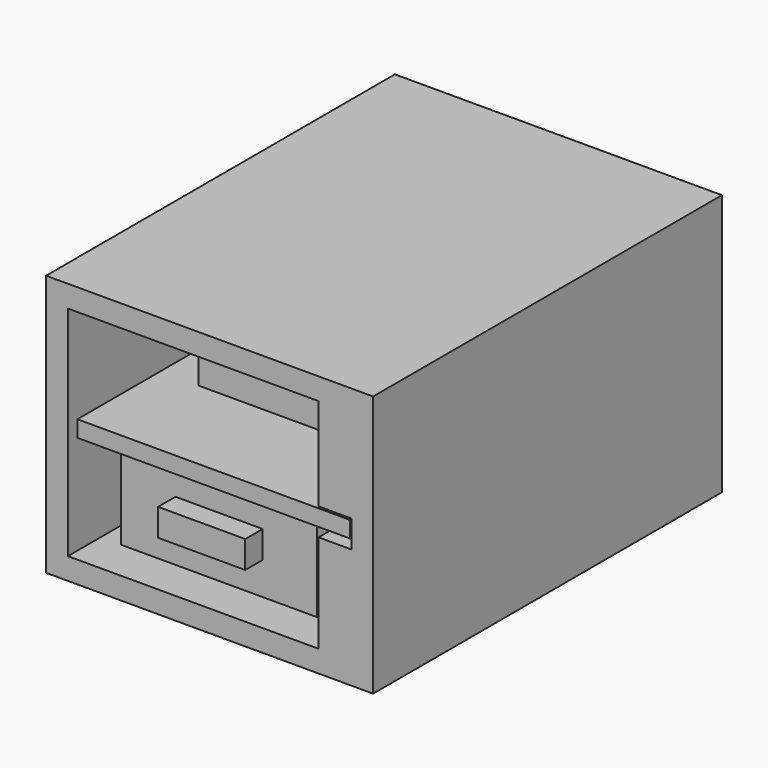
from build123d import *

# Parameters (mm, degrees)
SKETCH_W             = 25
SKETCH_H             = 37
PAD_DEPTH            = 1.5
SKETCH001_W          = 16
SKETCH001_H          = 26
PAD001_DEPTH         = 8.5
SKETCH002_W          = 18
SKETCH002_H          = 32.5
PAD002_DEPTH         = 9
SKETCH003_W          = 8
SKETCH003_H          = 2.5
PAD003_DEPTH         = 2
BODY_PITCH_ANGLE     = 90
BODY_PLACEMENT_ANGLE = -90
SKETCH004_W          = 30
SKETCH004_H          = 24
PAD004_DEPTH         = 38
SKETCH005_W          = 30
SKETCH005_H          = 24
PAD005_DEPTH         = 2


with BuildPart() as obj1:
    # Sketch → Pad (new body)
    with BuildSketch(Plane.YZ):
        with Locations((4.273874, -1.909899)):
            Rectangle(SKETCH_W, SKETCH_H)
    extrude(amount=PAD_DEPTH)

    # Sketch001 (on Face5 of Pad) → Pad001 (join)
    with BuildSketch(Plane(origin=(0, 0, 0), x_dir=(0, 1, 0), z_dir=(-1, 0, 0))):
        with Locations((3.273874, 5.909899)):
            Rectangle(SKETCH001_W, SKETCH001_H)
    extrude(amount=PAD001_DEPTH)

    # Sketch002 (on Face5 of Pad001) → Pad002 (join)
    with BuildSketch(Plane.YZ.offset(1.5)):
        with Locations((2.773874, -2.159899)):
            Rectangle(SKETCH002_W, SKETCH002_H)
    extrude(amount=PAD002_DEPTH)

    # Sketch003 (on Face14 of Pad002) → Pad003 (join)
    with BuildSketch(Plane(origin=(0, 0, 14.090101), x_dir=(0, -1, 0), z_dir=(0, 0, 1))):
        with Locations((-2.773874, 6.25)):
            Rectangle(SKETCH003_W, SKETCH003_H)
    extrude(amount=PAD003_DEPTH)


with BuildPart() as obj1_1:
    # Body pitch: moved
    add(obj1.part.rotate(Axis((0, 0, 0), (0, 1, 0)), BODY_PITCH_ANGLE))


with BuildPart() as obj1_2:
    # Body placement: moved
    add(obj1_1.part.moved(Location((7.68397, -0.0001, 3.86387))).rotate(Axis((7.68397, -0.0001, 3.86387), (0, 0, 1)), BODY_PLACEMENT_ANGLE))


with BuildPart() as case_body:
    # Sketch004 → Pad004 (new body)
    with BuildSketch(Plane.XZ):
        with Locations((11.915093, 2.798123)):
            Rectangle(SKETCH004_W, SKETCH004_H)
        Polygon((24.915093, 4.298123), (24.915093, 1.798123), (21.915093, 1.798123), (21.915093, -7.201877), (-1.084907, -7.201877), (-1.084907, 12.798123), (21.915093, 12.798123), (21.915093, 4.298123), align=None, mode=Mode.SUBTRACT)
    extrude(amount=PAD004_DEPTH)

    # Sketch005 (on Face13 of Pad004) → Pad005 (join)
    with BuildSketch(Plane(origin=(0, 0, 0), x_dir=(1, 0, 0), z_dir=(0, 1, 0))):
        with Locations((11.915093, -2.798123)):
            Rectangle(SKETCH005_W, SKETCH005_H)
    extrude(amount=PAD005_DEPTH)


with BuildPart() as case_body_1:
    # Body001 placement: moved
    add(case_body.part.moved(Location((0, 21, 0))))


solid = Compound([obj1_2.part, case_body_1.part])
